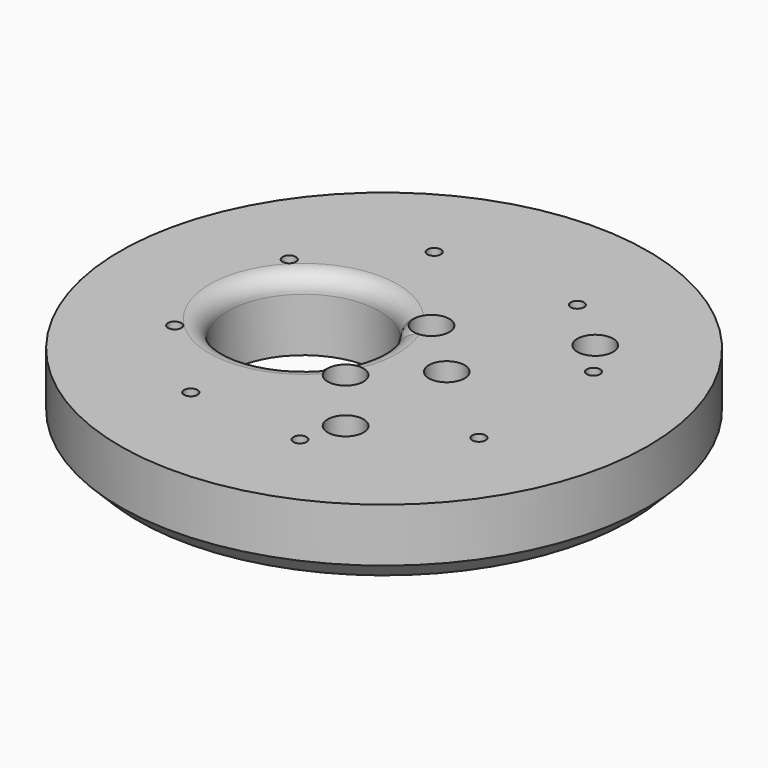
from build123d import *

# Parameters (mm, degrees)
CYLINDER1694_R     = 17
CYLINDER1694_DEPTH = 160
CYLINDER1713_R     = 4
CYLINDER1713_DEPTH = 100
CYLINDER1712_R     = 4
CYLINDER1712_DEPTH = 100
CYLINDER1696_R     = 1.5
CYLINDER1696_DEPTH = 100
CYLINDER1697_R     = 1.5
CYLINDER1697_DEPTH = 100
CYLINDER1698_R     = 1.5
CYLINDER1698_DEPTH = 100
CYLINDER1699_R     = 1.5
CYLINDER1699_DEPTH = 100
CYLINDER1700_R     = 1.5
CYLINDER1700_DEPTH = 100
CYLINDER1701_R     = 1.5
CYLINDER1701_DEPTH = 100
CYLINDER1702_R     = 1.5
CYLINDER1702_DEPTH = 100
CYLINDER1695_R     = 1.5
CYLINDER1695_DEPTH = 100
CYLINDER1716_R     = 4
CYLINDER1716_DEPTH = 100
CYLINDER1714_R     = 4
CYLINDER1714_DEPTH = 100
CYLINDER1717_R     = 4
CYLINDER1717_DEPTH = 100
CYLINDER1718_R     = 4
CYLINDER1718_DEPTH = 100
CYLINDER1719_R     = 4
CYLINDER1719_DEPTH = 100
CYLINDER1720_R     = 4
CYLINDER1720_DEPTH = 100
CYLINDER1721_R     = 4
CYLINDER1721_DEPTH = 100
CYLINDER1715_R     = 4
CYLINDER1715_DEPTH = 100
CYLINDER1705_R     = 4
CYLINDER1705_DEPTH = 20
CYLINDER1706_R     = 4
CYLINDER1706_DEPTH = 20
CYLINDER1707_R     = 4
CYLINDER1707_DEPTH = 20
CYLINDER1708_R     = 4
CYLINDER1708_DEPTH = 40
CYLINDER1709_R     = 4
CYLINDER1709_DEPTH = 40
CYLINDER1710_R     = 4
CYLINDER1710_DEPTH = 40
CYLINDER1711_R     = 4
CYLINDER1711_DEPTH = 40
CYLINDER1704_R     = 4
CYLINDER1704_DEPTH = 20
CYLINDER1703_R     = 59
CYLINDER1703_DEPTH = 16
CHAMFER059_SIZE    = 4
FILLET003_R        = 4


with BuildPart() as obj1:
    # Cylinder1694 → Cylinder1694 (new body)
    with BuildSketch(Plane(origin=(-18, 0, -60), x_dir=(1, 0, 0), z_dir=(0, 0, 1))):
        Circle(CYLINDER1694_R)
    extrude(amount=CYLINDER1694_DEPTH)


with BuildPart() as obj2:
    # Cylinder1713 → Cylinder1713 (new body)
    with BuildSketch(Plane(origin=(14, 0, -18), x_dir=(1, 0, 0), z_dir=(0, 0, 1))):
        Circle(CYLINDER1713_R)
    extrude(amount=CYLINDER1713_DEPTH)


with BuildPart() as obj3:
    # Cylinder1712 → Cylinder1712 (new body)
    with BuildSketch(Plane(origin=(90, 0, -18), x_dir=(1, 0, 0), z_dir=(0, 0, 1))):
        Circle(CYLINDER1712_R)
    extrude(amount=CYLINDER1712_DEPTH)

    # Compound941: union obj2
    add(obj2.part)


with BuildPart() as obj4:
    # Cylinder1696 → Cylinder1696 (new body)
    with BuildSketch(Plane(origin=(-34, -16, -60), x_dir=(1, 0, 0), z_dir=(0, 0, 1))):
        Circle(CYLINDER1696_R)
    extrude(amount=CYLINDER1696_DEPTH)


with BuildPart() as obj5:
    # Cylinder1697 → Cylinder1697 (new body)
    with BuildSketch(Plane(origin=(34, -16, -60), x_dir=(1, 0, 0), z_dir=(0, 0, 1))):
        Circle(CYLINDER1697_R)
    extrude(amount=CYLINDER1697_DEPTH)


with BuildPart() as obj6:
    # Cylinder1698 → Cylinder1698 (new body)
    with BuildSketch(Plane(origin=(34, 16, -60), x_dir=(1, 0, 0), z_dir=(0, 0, 1))):
        Circle(CYLINDER1698_R)
    extrude(amount=CYLINDER1698_DEPTH)


with BuildPart() as obj7:
    # Cylinder1699 → Cylinder1699 (new body)
    with BuildSketch(Plane(origin=(16, 34, -60), x_dir=(1, 0, 0), z_dir=(0, 0, 1))):
        Circle(CYLINDER1699_R)
    extrude(amount=CYLINDER1699_DEPTH)


with BuildPart() as obj8:
    # Cylinder1700 → Cylinder1700 (new body)
    with BuildSketch(Plane(origin=(10, -36, -60), x_dir=(1, 0, 0), z_dir=(0, 0, 1))):
        Circle(CYLINDER1700_R)
    extrude(amount=CYLINDER1700_DEPTH)


with BuildPart() as obj9:
    # Cylinder1701 → Cylinder1701 (new body)
    with BuildSketch(Plane(origin=(-16, -34, -60), x_dir=(1, 0, 0), z_dir=(0, 0, 1))):
        Circle(CYLINDER1701_R)
    extrude(amount=CYLINDER1701_DEPTH)


with BuildPart() as obj10:
    # Cylinder1702 → Cylinder1702 (new body)
    with BuildSketch(Plane(origin=(-16, 34, -60), x_dir=(1, 0, 0), z_dir=(0, 0, 1))):
        Circle(CYLINDER1702_R)
    extrude(amount=CYLINDER1702_DEPTH)


with BuildPart() as obj11:
    # Cylinder1695 → Cylinder1695 (new body)
    with BuildSketch(Plane(origin=(-34, 16, -60), x_dir=(1, 0, 0), z_dir=(0, 0, 1))):
        Circle(CYLINDER1695_R)
    extrude(amount=CYLINDER1695_DEPTH)

    # Compound938: union obj4, obj5, obj6, obj7, obj8, obj9, obj10
    add(obj4.part)
    add(obj5.part)
    add(obj6.part)
    add(obj7.part)
    add(obj8.part)
    add(obj9.part)
    add(obj10.part)


with BuildPart() as obj12:
    # Cylinder1716 → Cylinder1716 (new body)
    with BuildSketch(Plane(origin=(-16, 34, -90), x_dir=(1, 0, 0), z_dir=(0, 0, 1))):
        Circle(CYLINDER1716_R)
    extrude(amount=CYLINDER1716_DEPTH)


with BuildPart() as obj13:
    # Cylinder1714 → Cylinder1714 (new body)
    with BuildSketch(Plane(origin=(-16, -34, -90), x_dir=(1, 0, 0), z_dir=(0, 0, 1))):
        Circle(CYLINDER1714_R)
    extrude(amount=CYLINDER1714_DEPTH)


with BuildPart() as obj14:
    # Cylinder1717 → Cylinder1717 (new body)
    with BuildSketch(Plane(origin=(34, -16, -90), x_dir=(1, 0, 0), z_dir=(0, 0, 1))):
        Circle(CYLINDER1717_R)
    extrude(amount=CYLINDER1717_DEPTH)


with BuildPart() as obj15:
    # Cylinder1718 → Cylinder1718 (new body)
    with BuildSketch(Plane(origin=(16, 34, -90), x_dir=(1, 0, 0), z_dir=(0, 0, 1))):
        Circle(CYLINDER1718_R)
    extrude(amount=CYLINDER1718_DEPTH)


with BuildPart() as obj16:
    # Cylinder1719 → Cylinder1719 (new body)
    with BuildSketch(Plane(origin=(10, -36, -90), x_dir=(1, 0, 0), z_dir=(0, 0, 1))):
        Circle(CYLINDER1719_R)
    extrude(amount=CYLINDER1719_DEPTH)


with BuildPart() as obj17:
    # Cylinder1720 → Cylinder1720 (new body)
    with BuildSketch(Plane(origin=(-34, 16, -90), x_dir=(1, 0, 0), z_dir=(0, 0, 1))):
        Circle(CYLINDER1720_R)
    extrude(amount=CYLINDER1720_DEPTH)


with BuildPart() as obj18:
    # Cylinder1721 → Cylinder1721 (new body)
    with BuildSketch(Plane(origin=(34, 16, -90), x_dir=(1, 0, 0), z_dir=(0, 0, 1))):
        Circle(CYLINDER1721_R)
    extrude(amount=CYLINDER1721_DEPTH)


with BuildPart() as obj19:
    # Cylinder1715 → Cylinder1715 (new body)
    with BuildSketch(Plane(origin=(-34, -16, -90), x_dir=(1, 0, 0), z_dir=(0, 0, 1))):
        Circle(CYLINDER1715_R)
    extrude(amount=CYLINDER1715_DEPTH)

    # Compound940: union obj12, obj13, obj14, obj15, obj16, obj17, obj18
    add(obj12.part)
    add(obj13.part)
    add(obj14.part)
    add(obj15.part)
    add(obj16.part)
    add(obj17.part)
    add(obj18.part)


with BuildPart() as obj20:
    # Cylinder1705 → Cylinder1705 (new body)
    with BuildSketch(Plane(origin=(103, 12, -20), x_dir=(1, 0, 0), z_dir=(0, 0, 1))):
        Circle(CYLINDER1705_R)
    extrude(amount=CYLINDER1705_DEPTH)


with BuildPart() as obj21:
    # Cylinder1706 → Cylinder1706 (new body)
    with BuildSketch(Plane(origin=(76, 24, -18), x_dir=(1, 0, 0), z_dir=(0, 0, 1))):
        Circle(CYLINDER1706_R)
    extrude(amount=CYLINDER1706_DEPTH)


with BuildPart() as obj22:
    # Cylinder1707 → Cylinder1707 (new body)
    with BuildSketch(Plane(origin=(91, -27, -18), x_dir=(1, 0, 0), z_dir=(0, 0, 1))):
        Circle(CYLINDER1707_R)
    extrude(amount=CYLINDER1707_DEPTH)


with BuildPart() as obj23:
    # Cylinder1708 → Cylinder1708 (new body)
    with BuildSketch(Plane(origin=(13, -27, -18), x_dir=(1, 0, 0), z_dir=(0, 0, 1))):
        Circle(CYLINDER1708_R)
    extrude(amount=CYLINDER1708_DEPTH)


with BuildPart() as obj24:
    # Cylinder1709 → Cylinder1709 (new body)
    with BuildSketch(Plane(origin=(28, 24, -18), x_dir=(1, 0, 0), z_dir=(0, 0, 1))):
        Circle(CYLINDER1709_R)
    extrude(amount=CYLINDER1709_DEPTH)


with BuildPart() as obj25:
    # Cylinder1710 → Cylinder1710 (new body)
    with BuildSketch(Plane(origin=(1, -12, -18), x_dir=(1, 0, 0), z_dir=(0, 0, 1))):
        Circle(CYLINDER1710_R)
    extrude(amount=CYLINDER1710_DEPTH)


with BuildPart() as obj26:
    # Cylinder1711 → Cylinder1711 (new body)
    with BuildSketch(Plane(origin=(1, 12, -18), x_dir=(1, 0, 0), z_dir=(0, 0, 1))):
        Circle(CYLINDER1711_R)
    extrude(amount=CYLINDER1711_DEPTH)


with BuildPart() as obj27:
    # Cylinder1704 → Cylinder1704 (new body)
    with BuildSketch(Plane(origin=(103, -12, -20), x_dir=(1, 0, 0), z_dir=(0, 0, 1))):
        Circle(CYLINDER1704_R)
    extrude(amount=CYLINDER1704_DEPTH)

    # Compound939: union obj20, obj21, obj22, obj23, obj24, obj25, obj26
    add(obj20.part)
    add(obj21.part)
    add(obj22.part)
    add(obj23.part)
    add(obj24.part)
    add(obj25.part)
    add(obj26.part)


with BuildPart() as fillet003:
    # Cylinder1703 → Cylinder1703 (new body)
    with BuildSketch(Plane.XY.offset(2)):
        Circle(CYLINDER1703_R)
    extrude(amount=CYLINDER1703_DEPTH)

    # Cut593: cut obj27
    add(obj27.part, mode=Mode.SUBTRACT)

    # Cut594: cut obj19
    add(obj19.part, mode=Mode.SUBTRACT)

    # Cut595: cut obj11
    add(obj11.part, mode=Mode.SUBTRACT)

    # Chamfer059
    chamfer059_edges = [fillet003.edges().sort_by_distance(p)[0] for p in [
        (-59, 0, 2),
    ]]
    chamfer(chamfer059_edges, length=CHAMFER059_SIZE)

    # Cut596: cut obj3
    add(obj3.part, mode=Mode.SUBTRACT)


with BuildPart() as fillet003_1:
    # Cut596 placement: moved
    add(fillet003.part.moved(Location((0, 0, 4))))

    # Cut585: cut obj1
    add(obj1.part, mode=Mode.SUBTRACT)

    # Fillet003
    fillet003_edges = [fillet003_1.edges().sort_by_distance(p)[0] for p in [
        (-35, 0, 22),
    ]]
    fillet(fillet003_edges, radius=FILLET003_R)


solid = fillet003_1.part
